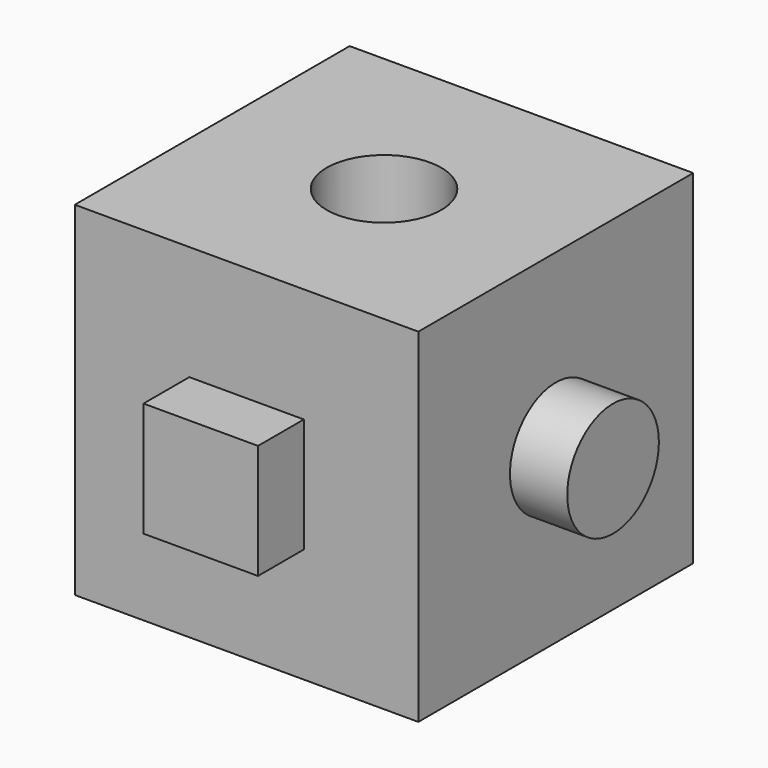
from build123d import *

# Parameters (mm, degrees)
F0_W     = 76.2
F0_H     = 76.2
F1_DEPTH = 76.2
F3_D     = 25.4
F4_W     = 25.4
F4_H     = 25.4
F5_DEPTH = 12.7
F6_R     = 12.7
F7_DEPTH = 12.7


with BuildPart() as f1:
    # F0 (on Front) → F1 (new body)
    with BuildSketch(Plane.XZ):
        with Locations((-38.1, 38.1)):
            Rectangle(F0_W, F0_H)
    extrude(amount=F1_DEPTH)

    # F3 (through all)
    with Locations(Plane.XY.offset(76.2)):
        with Locations((-38.1, -38.1)):
            Hole(F3_D / 2)

    # F4 (on face) → F5 (join)
    with BuildSketch(Plane.XZ.offset(76.2)):
        with Locations((-38.1, 38.1)):
            Rectangle(F4_W, F4_H)
    extrude(amount=F5_DEPTH)

    # F6 (on face) → F7 (join)
    with BuildSketch(Plane.YZ):
        with Locations((-38.1, 38.1)):
            Circle(F6_R)
    extrude(amount=F7_DEPTH)


solid = f1.part
